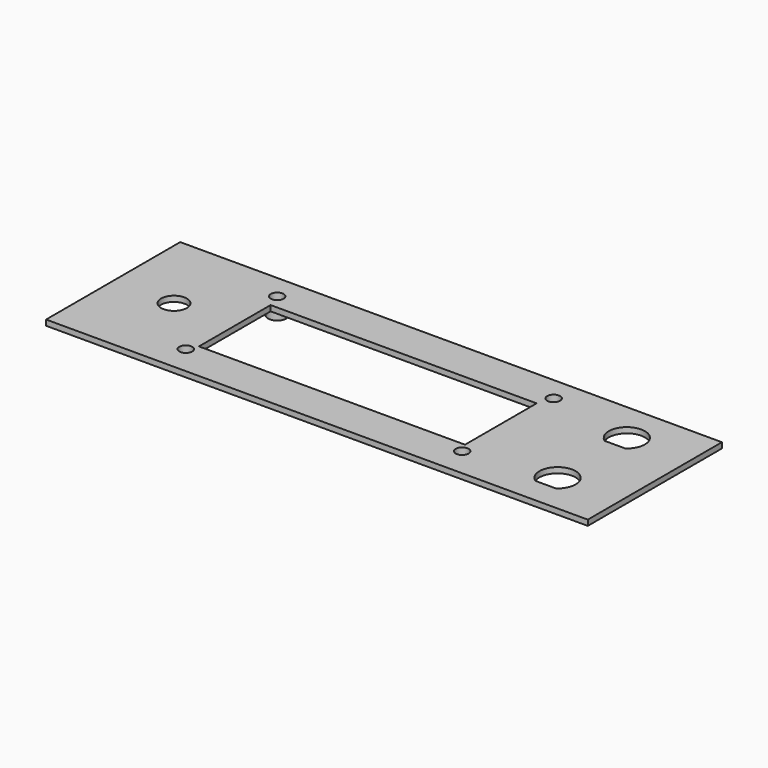
from build123d import *

# Parameters (mm, degrees)
F0_W      = 147
F0_H      = 45.5
F0_W_2    = 67
F0_H_2    = 3.3
F0_R      = 3.5
F0_W_3    = 72.2
F0_H_3    = 24.3
F1_DEPTH  = 1.5
F2_DEPTH  = 1.5
F3_DEPTH  = 1.5
F4_DEPTH  = 1.5
F5_DEPTH  = 1.5
F6_R      = 2.5
F7_DEPTH  = 3
F8_R      = 1.75
F9_DEPTH  = 6
F10_R     = 2.5
F11_DEPTH = 3
F12_R     = 1.75
F13_DEPTH = 25
F14_R     = 2.5
F15_DEPTH = 3
F16_R     = 1.75
F17_DEPTH = 25
F18_R     = 2.5
F19_DEPTH = 3
F20_R     = 1.75
F21_DEPTH = 25


with BuildPart() as f1:
    # F0 (on Top) → F1 (new body)
    with BuildSketch(Plane.XY):
        Rectangle(F0_W, F0_H)
        with Locations((-4.4, -15.3125505805)):
            Rectangle(F0_W_2, F0_H_2, mode=Mode.SUBTRACT)
        with BuildLine():
            ThreePointArc((53.7276520505, -15.79), (56.5004484729, -6.85), (59.2732448953, -15.79))
            Line((59.2732448953, -15.79), (53.7276520505, -15.79))
        make_face(mode=Mode.SUBTRACT)
        with Locations((-57, 0)):
            Circle(F0_R, mode=Mode.SUBTRACT)
        with Locations((-4.4, 0)):
            Rectangle(F0_W_3, F0_H_3, mode=Mode.SUBTRACT)
        with BuildLine():
            ThreePointArc((53.7272035776, 7.71), (56.5, 16.65), (59.2727964224, 7.71))
            Line((59.2727964224, 7.71), (53.7272035776, 7.71))
        make_face(mode=Mode.SUBTRACT)
    extrude(amount=F1_DEPTH)

    # F0 (on Top) → F2 (join)
    with BuildSketch(Plane.XY):
        Rectangle(F0_W, F0_H)
        with Locations((-4.4, -15.3125505805)):
            Rectangle(F0_W_2, F0_H_2, mode=Mode.SUBTRACT)
        with BuildLine():
            ThreePointArc((53.7276520505, -15.79), (56.5004484729, -6.85), (59.2732448953, -15.79))
            Line((59.2732448953, -15.79), (53.7276520505, -15.79))
        make_face(mode=Mode.SUBTRACT)
        with Locations((-57, 0)):
            Circle(F0_R, mode=Mode.SUBTRACT)
        with Locations((-4.4, 0)):
            Rectangle(F0_W_3, F0_H_3, mode=Mode.SUBTRACT)
        with BuildLine():
            ThreePointArc((53.7272035776, 7.71), (56.5, 16.65), (59.2727964224, 7.71))
            Line((59.2727964224, 7.71), (53.7272035776, 7.71))
        make_face(mode=Mode.SUBTRACT)
    extrude(amount=F2_DEPTH)

    # F0 (on Top) → F3 (join)
    with BuildSketch(Plane.XY):
        Rectangle(F0_W, F0_H)
        with Locations((-4.4, -15.3125505805)):
            Rectangle(F0_W_2, F0_H_2, mode=Mode.SUBTRACT)
        with BuildLine():
            ThreePointArc((53.7276520505, -15.79), (56.5004484729, -6.85), (59.2732448953, -15.79))
            Line((59.2732448953, -15.79), (53.7276520505, -15.79))
        make_face(mode=Mode.SUBTRACT)
        with Locations((-57, 0)):
            Circle(F0_R, mode=Mode.SUBTRACT)
        with Locations((-4.4, 0)):
            Rectangle(F0_W_3, F0_H_3, mode=Mode.SUBTRACT)
        with BuildLine():
            ThreePointArc((53.7272035776, 7.71), (56.5, 16.65), (59.2727964224, 7.71))
            Line((59.2727964224, 7.71), (53.7272035776, 7.71))
        make_face(mode=Mode.SUBTRACT)
    extrude(amount=F3_DEPTH)

    # F0 (on Top) → F4 (join, symmetric)
    with BuildSketch(Plane.XY):
        with Locations((-4.4, -15.3125505805)):
            Rectangle(F0_W_2, F0_H_2)
    extrude(amount=F4_DEPTH, both=True)

    # F5 (add): a face of the model
    f5_faces = [f1.faces().sort_by_distance(p)[0] for p in [
        (-4.4, -15.3125505805, -1.5),
    ]]
    extrude(f5_faces, amount=F5_DEPTH)

    # F6 (on face) → F7 (join)
    with BuildSketch(Plane.XY):
        with Locations((33.1043936312, 16.1594673991)):
            Circle(F6_R)
    extrude(amount=-F7_DEPTH)

    # F8 (on face) → F9 (cut)
    with BuildSketch(Plane(origin=(0, 0, -3), x_dir=(1, 0, 0), z_dir=(0, 0, -1))):
        with Locations((33.1043936312, -16.1594673991)):
            Circle(F8_R)
    extrude(amount=-F9_DEPTH, mode=Mode.SUBTRACT)

    # F10 (on face) → F11 (join)
    with BuildSketch(Plane.XY):
        with Locations((-41.8984927237, 16.1572918296)):
            Circle(F10_R)
    extrude(amount=-F11_DEPTH)

    # F12 (on face) → F13 (cut)
    with BuildSketch(Plane(origin=(0, 0, -3), x_dir=(1, 0, 0), z_dir=(0, 0, -1))):
        with Locations((-41.8984927237, -16.1572918296)):
            Circle(F12_R)
    extrude(amount=-F13_DEPTH, mode=Mode.SUBTRACT)

    # F14 (on face) → F15 (join)
    with BuildSketch(Plane.XY):
        with Locations((-41.893761605, -14.8712657392)):
            Circle(F14_R)
    extrude(amount=-F15_DEPTH)

    # F16 (on face) → F17 (cut)
    with BuildSketch(Plane(origin=(0, 0, -3), x_dir=(1, 0, 0), z_dir=(0, 0, -1))):
        with Locations((-41.893761605, 14.8712657392)):
            Circle(F16_R)
    extrude(amount=-F17_DEPTH, mode=Mode.SUBTRACT)

    # F18 (on face) → F19 (join)
    with BuildSketch(Plane.XY):
        with Locations((33.1018306315, -14.8555124179)):
            Circle(F18_R)
    extrude(amount=-F19_DEPTH)

    # F20 (on face) → F21 (cut)
    with BuildSketch(Plane(origin=(0, 0, -3), x_dir=(1, 0, 0), z_dir=(0, 0, -1))):
        with Locations((33.1018306315, 14.8555124179)):
            Circle(F20_R)
    extrude(amount=-F21_DEPTH, mode=Mode.SUBTRACT)


solid = f1.part
